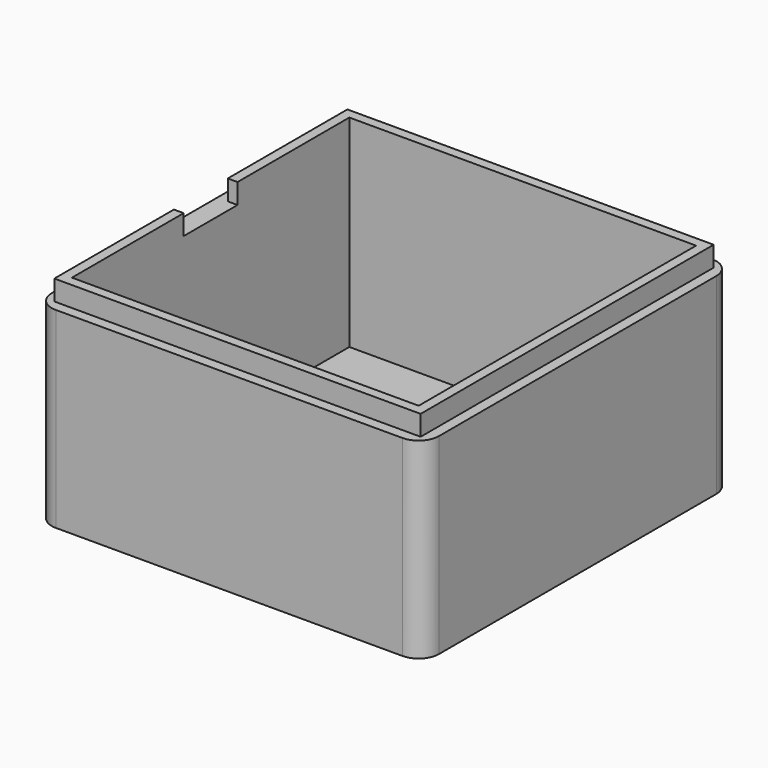
from build123d import *

# Parameters (mm, degrees)
SKETCH_W        = 57.5
SKETCH_H        = 57.5
PAD_DEPTH       = 1.5
SKETCH001_W     = 57.5
SKETCH001_H     = 57.5
SKETCH001_W_2   = 51.5
SKETCH001_H_2   = 51.5
PAD001_DEPTH    = 30
SKETCH002_W     = 57.5
SKETCH002_H     = 57.5
SKETCH002_W_2   = 54.4
SKETCH002_H_2   = 54.4
POCKET_DEPTH    = 3
FILLET_R        = 3
SKETCH003_W     = 10
SKETCH003_H     = 3
POCKET001_DEPTH = 5


with BuildPart() as part:
    # Sketch → Pad (new body)
    with BuildSketch(Plane.XY):
        Rectangle(SKETCH_W, SKETCH_H)
    extrude(amount=PAD_DEPTH)

    # Sketch001 (on Face6 of Pad) → Pad001 (join)
    with BuildSketch(Plane.XY.offset(1.5)):
        Rectangle(SKETCH001_W, SKETCH001_H)
        Rectangle(SKETCH001_W_2, SKETCH001_H_2, mode=Mode.SUBTRACT)
    extrude(amount=PAD001_DEPTH)

    # Sketch002 (on Face9 of Pad001) → Pocket (cut)
    with BuildSketch(Plane.XY.offset(31.5)):
        Rectangle(SKETCH002_W, SKETCH002_H)
        Rectangle(SKETCH002_W_2, SKETCH002_H_2, mode=Mode.SUBTRACT)
    extrude(amount=-POCKET_DEPTH, mode=Mode.SUBTRACT)

    # Fillet
    fillet_edges = [part.edges().sort_by_distance(p)[0] for p in [
        (-28.75, 28.75, 15),
        (-28.75, 28.75, 0.75),
        (-28.75, -28.75, 0.75),
        (-28.75, -28.75, 15),
        (28.75, -28.75, 0.75),
        (28.75, -28.75, 15),
        (28.75, 28.75, 15),
        (28.75, 28.75, 0.75),
    ]]
    fillet(fillet_edges, radius=FILLET_R)

    # Sketch003 (on Face22 of Fillet) → Pocket001 (cut)
    with BuildSketch(Plane(origin=(-27.2, 0, 0), x_dir=(0, -1, 0), z_dir=(-1, 0, 0))):
        with Locations((0, 30)):
            Rectangle(SKETCH003_W, SKETCH003_H)
    extrude(amount=-POCKET001_DEPTH, mode=Mode.SUBTRACT)


solid = part.part
